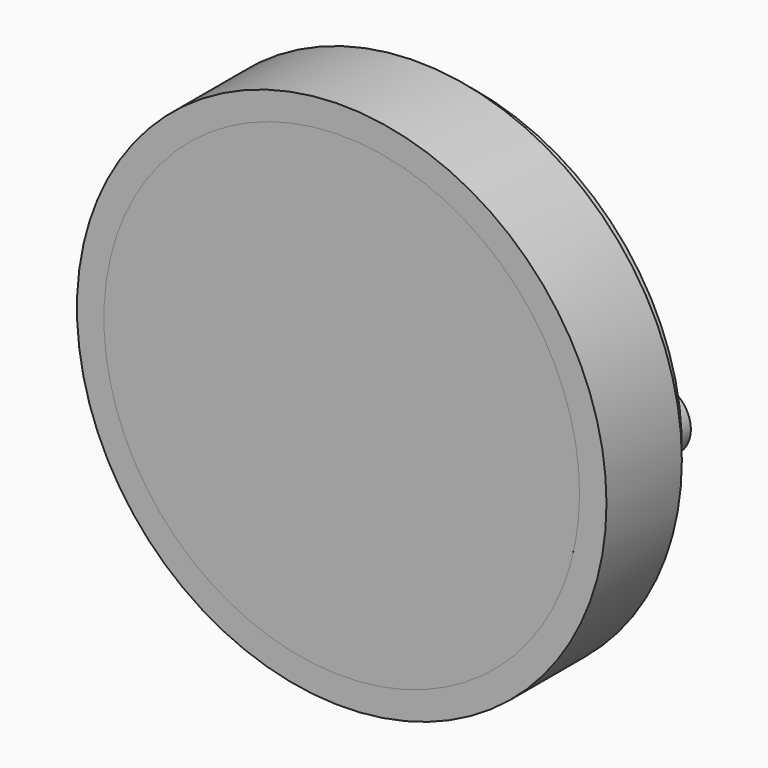
from build123d import *

# Parameters (mm, degrees)
F0_R     = 14.75
F0_R_2   = 13.25
F1_DEPTH = 6.25
F2_DEPTH = 1.5
F3_R     = 14.75
F3_R_2   = 13.95
F4_DEPTH = 1
F5_R     = 1.75
F5_R_2   = 0.5
F6_DEPTH = 6.25


with BuildPart() as f1:
    # F0 (on Front) → F1 (new body)
    with BuildSketch(Plane.XZ):
        Circle(F0_R)
        Circle(F0_R_2, mode=Mode.SUBTRACT)
    extrude(amount=-F1_DEPTH)

    # F3 (on face) → F4 (cut)
    with BuildSketch(Plane(origin=(0, 6.25, 0), x_dir=(-1, 0, 0), z_dir=(0, 1, 0))):
        Circle(F3_R)
        Circle(F3_R_2, mode=Mode.SUBTRACT)
    extrude(amount=-F4_DEPTH, mode=Mode.SUBTRACT)


with BuildPart() as f2:
    # F0 (on Front) → F2 (new body)
    with BuildSketch(Plane.XZ):
        Circle(F0_R_2)
    extrude(amount=-F2_DEPTH)


with BuildPart() as f6:
    # F5 (on face) → F6 (new body)
    with BuildSketch(Plane(origin=(0, 1.5, 0), x_dir=(-1, 0, 0), z_dir=(0, 1, 0))):
        with Locations((-11.5, 0)):
            Circle(F5_R)
        with Locations((-11.5, 0)):
            Circle(F5_R_2, mode=Mode.SUBTRACT)
        with Locations((11.5, 0)):
            Circle(F5_R)
        with Locations((11.5, 0)):
            Circle(F5_R_2, mode=Mode.SUBTRACT)
    extrude(amount=F6_DEPTH)


solid = Compound([f1.part, f2.part, f6.part])
